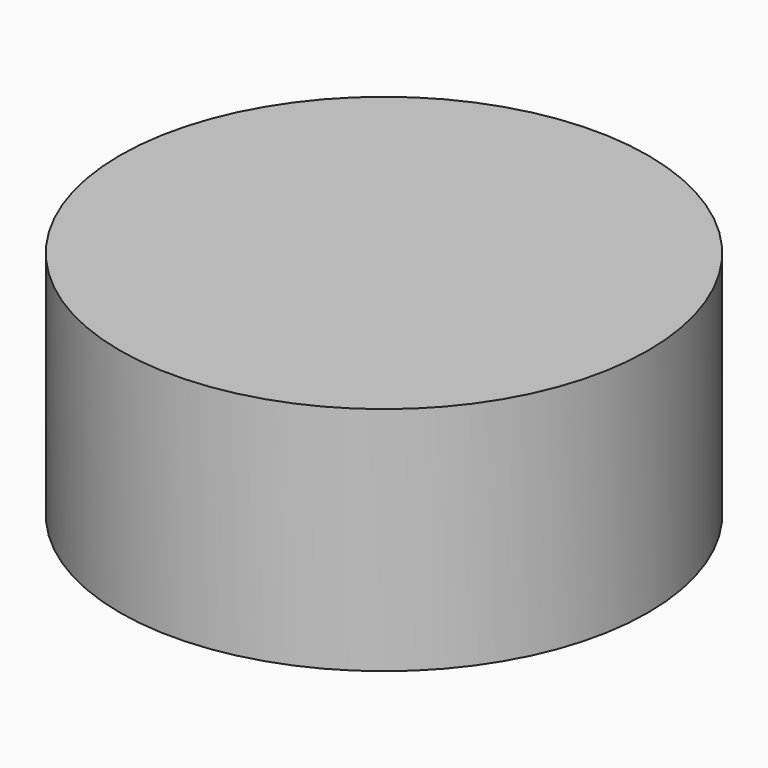
from build123d import *

# Parameters (mm, degrees)
CYLINDER_R     = 17.1704
CYLINDER_DEPTH = 15


with BuildPart() as part:
    # Cylinder → Cylinder (new body)
    with BuildSketch(Plane.XY.offset(-2.5)):
        Circle(CYLINDER_R)
    extrude(amount=CYLINDER_DEPTH)


solid = part.part
